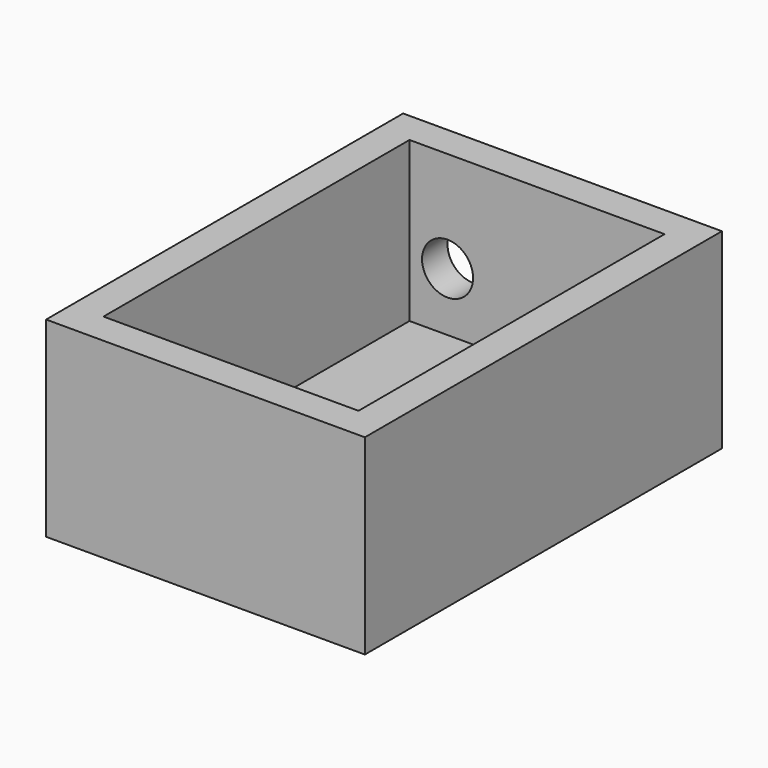
from build123d import *

# Parameters (mm, degrees)
F0_W     = 50
F0_H     = 70
F0_W_2   = 40
F0_H_2   = 60
F1_DEPTH = 30
F2_W     = 40
F2_H     = 60
F3_DEPTH = 25
F4_R     = 4
F5_DEPTH = 5


with BuildPart() as f1:
    # F0 (on Top) → F1 (new body)
    with BuildSketch(Plane.XY):
        Rectangle(F0_W, F0_H)
        Rectangle(F0_W_2, F0_H_2, mode=Mode.SUBTRACT)
        Rectangle(F0_W_2, F0_H_2)
    extrude(amount=F1_DEPTH)

    # F2 (on face) → F3 (cut)
    with BuildSketch(Plane.XY.offset(30)):
        Rectangle(F2_W, F2_H)
    extrude(amount=-F3_DEPTH, mode=Mode.SUBTRACT)

    # F4 (on face) → F5 (cut, through all)
    with BuildSketch(Plane(origin=(0, 35, 0), x_dir=(-1, 0, 0), z_dir=(0, 1, 0))):
        with Locations((14.030943, 14.175501)):
            Circle(F4_R)
        with Locations((14.030943, 14.175501)):
            Circle(F4_R)
    extrude(amount=-F5_DEPTH, mode=Mode.SUBTRACT)


solid = f1.part
